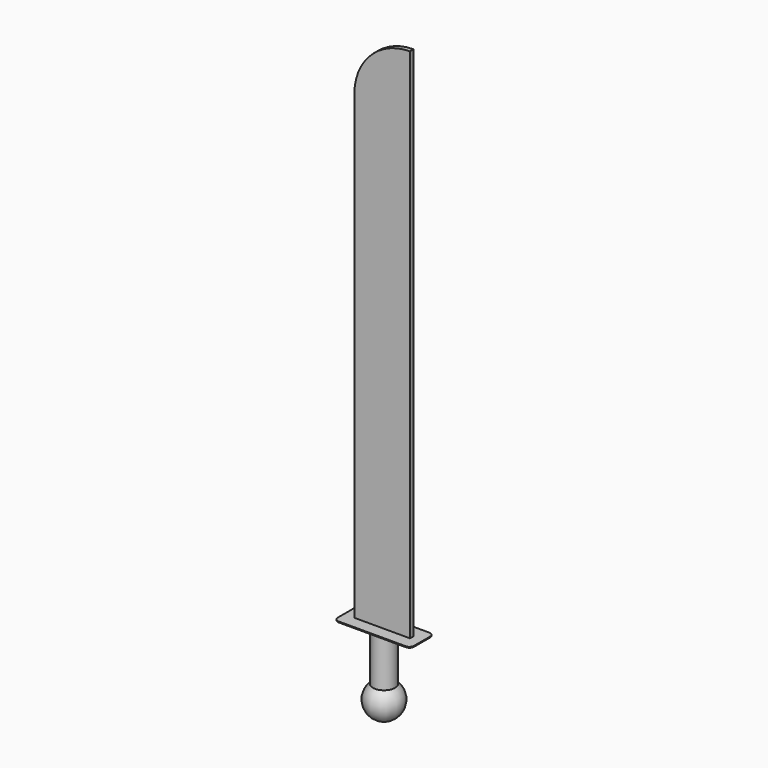
from build123d import *

# Parameters (mm, degrees)
F0_W     = 84.257484
F0_H     = 32.520414
F1_DEPTH = 0.5
F5_DEPTH = 2.5
F6_R     = 5.08


with BuildPart() as f1:
    # F0 (on Top) → F1 (new body, symmetric)
    with BuildSketch(Plane.XY):
        Rectangle(F0_W, F0_H)
    extrude(amount=F1_DEPTH, both=True)

    # F2 (on Front) → F3 (revolve)
    with BuildSketch(Plane.XZ):
        with BuildLine():
            Line((0, 0), (-12.19517, 0))
            Line((-12.19517, 0), (-12.19517, -54.693431))
            ThreePointArc((-12.19517, -54.693431), (-18.343741, -76.310214), (0, -89.29472))
            Line((0, -89.29472), (0, 0))
        make_face()
    revolve(axis=Axis((0, 0, -44.64736), (0, 0, -1)))

    # F4 (on Front) → F5 (join, symmetric)
    with BuildSketch(Plane.XZ):
        with BuildLine():
            Line((-30.75086, 508.389294), (-30.75086, 0))
            Line((-30.75086, 0), (30.75086, 0))
            Line((30.75086, 0), (30.75086, 571.142793))
            ThreePointArc((30.75086, 571.142793), (-12.305865, 553.561671), (-30.75086, 510.867883))
            Line((-30.75086, 510.867883), (-30.75086, 508.389294))
        make_face()
        with BuildLine():
            ThreePointArc((-30.75086, 510.867883), (-30.763345, 509.628589), (-30.75086, 508.389294))
            Line((-30.75086, 508.389294), (-30.75086, 510.867883))
        make_face()
    extrude(amount=F5_DEPTH, both=True)

    # F6
    f6_edges = [f1.edges().sort_by_distance(p)[0] for p in [
        (-42.128742, -16.260207, 0),
        (-42.128742, 16.260207, 0),
        (42.128742, 16.260207, 0),
        (42.128742, -16.260207, 0),
    ]]
    fillet(f6_edges, radius=F6_R)


solid = f1.part
